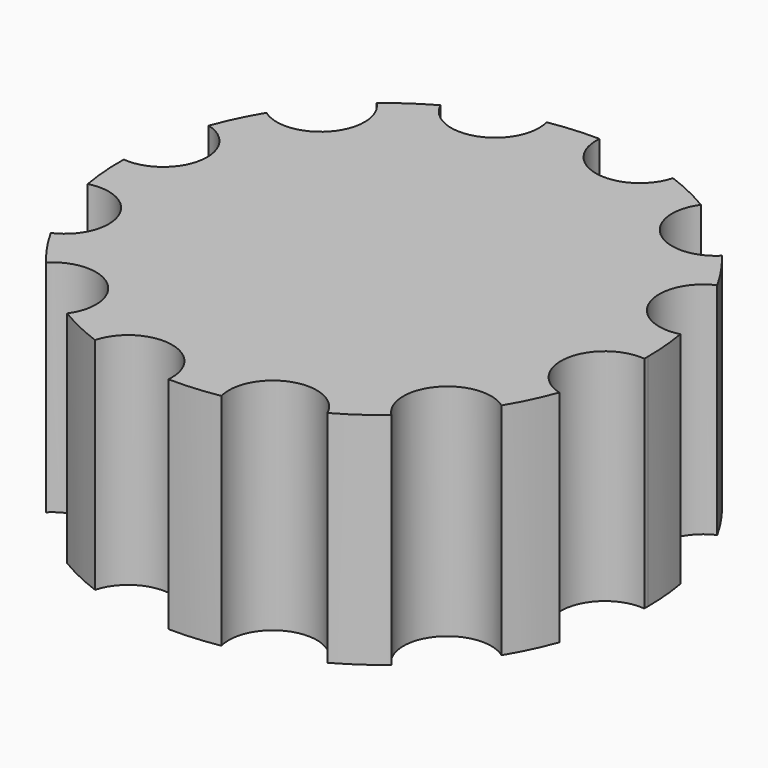
from build123d import *

# Parameters (mm, degrees)
F1_DEPTH = 25


with BuildPart() as f1:
    # F0 (on Top) → F1 (new body)
    with BuildSketch(Plane.XY):
        with BuildLine():
            ThreePointArc((29.995626, -0.512264), (29.998907, -0.256141), (30, 0))
            ThreePointArc((30, 0), (29.888092, 2.588808), (29.553205, 5.158303))
            ThreePointArc((29.553205, 5.158303), (23.571681, 8.329218), (26.233106, 14.55418))
            ThreePointArc((26.233106, 14.55418), (24.735282, 16.975448), (23.014675, 19.243824))
            ThreePointArc((23.014675, 19.243824), (16.249065, 18.999155), (15.441446, 25.720842))
            ThreePointArc((15.441446, 25.720842), (12.933658, 27.06881), (10.309381, 28.172978))
            ThreePointArc((10.309381, 28.172978), (4.572526, 24.578283), (0.512264, 29.995626))
            ThreePointArc((0.512264, 29.995626), (-2.333528, 29.909106), (-5.158303, 29.553205))
            ThreePointArc((-5.158303, 29.553205), (-8.329218, 23.571681), (-14.55418, 26.233106))
            ThreePointArc((-14.55418, 26.233106), (-16.975448, 24.735282), (-19.243824, 23.014675))
            ThreePointArc((-19.243824, 23.014675), (-18.17428, 21.39943), (-17.798986, 19.498878))
            ThreePointArc((-17.798986, 19.498878), (-20.519653, 15.048638), (-25.720842, 15.441446))
            ThreePointArc((-25.720842, 15.441446), (-27.06881, 12.933658), (-28.172978, 10.309381))
            ThreePointArc((-28.172978, 10.309381), (-25.518716, 8.519785), (-24.49394, 5.487031))
            ThreePointArc((-24.49394, 5.487031), (-26.140466, 1.778363), (-29.995626, 0.512264))
            ThreePointArc((-29.995626, 0.512264), (-29.909106, -2.333528), (-29.553205, -5.158303))
            ThreePointArc((-29.553205, -5.158303), (-25.23118, -6.036783), (-23.286017, -9.995062))
            ThreePointArc((-23.286017, -9.995062), (-24.086936, -12.709417), (-26.233106, -14.55418))
            ThreePointArc((-26.233106, -14.55418), (-24.735282, -16.975448), (-23.014675, -19.243824))
            ThreePointArc((-23.014675, -19.243824), (-17.57261, -18.184932), (-14.498878, -22.798986))
            ThreePointArc((-14.498878, -22.798986), (-14.740351, -24.334049), (-15.441446, -25.720842))
            ThreePointArc((-15.441446, -25.720842), (-12.933658, -27.06881), (-10.309381, -28.172978))
            ThreePointArc((-10.309381, -28.172978), (-4.820604, -24.538551), (-0.487031, -29.49394))
            ThreePointArc((-0.487031, -29.49394), (-0.493343, -29.7451), (-0.512264, -29.995626))
            ThreePointArc((-0.512264, -29.995626), (2.333528, -29.909106), (5.158303, -29.553205))
            ThreePointArc((5.158303, -29.553205), (8.329218, -23.571681), (14.55418, -26.233106))
            ThreePointArc((14.55418, -26.233106), (16.975448, -24.735282), (19.243824, -23.014675))
            ThreePointArc((19.243824, -23.014675), (18.999155, -16.249065), (25.720842, -15.441446))
            ThreePointArc((25.720842, -15.441446), (27.06881, -12.933658), (28.172978, -10.309381))
            ThreePointArc((28.172978, -10.309381), (24.578283, -4.572526), (29.995626, -0.512264))
        make_face()
    extrude(amount=F1_DEPTH)


solid = f1.part
